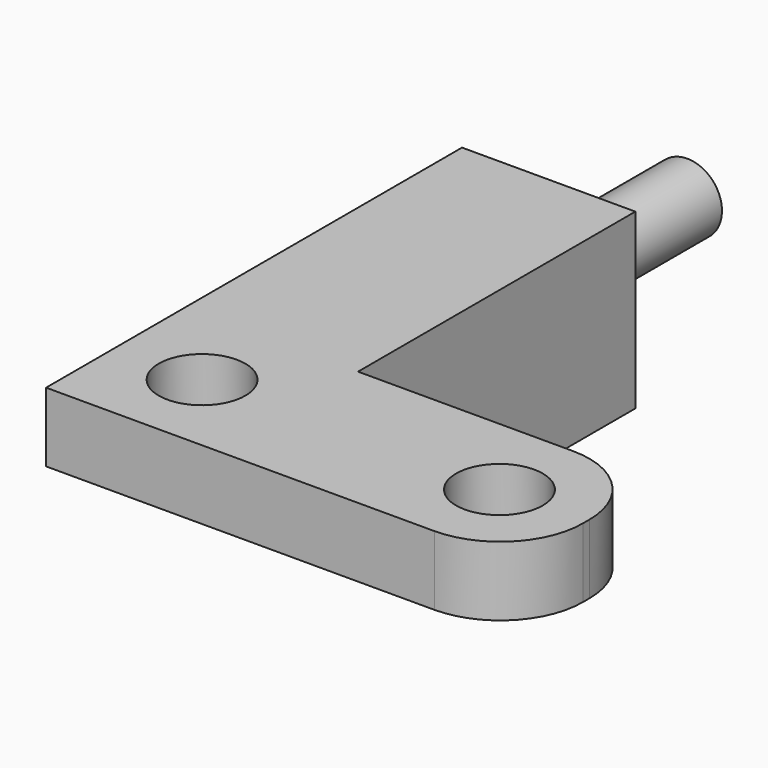
from build123d import *

# Parameters (mm, degrees)
PAD025_DEPTH    = 2
FILLET003_R     = 2.380952
SKETCH049_R     = 1.25
POCKET014_DEPTH = 2
SKETCH050_W     = 5
SKETCH050_H     = 10
PAD026_DEPTH    = 3
SKETCH051_R     = 1
PAD027_DEPTH    = 5


with BuildPart() as part:
    # Sketch048 → Pad025 (new body)
    with BuildSketch(Plane.XY):
        Polygon((-2.5, -2.5), (11.08, -2.5), (11.08, 2.5), (2.5, 2.5), (2.5, 12.5), (-2.5, 12.5), align=None)
    extrude(amount=PAD025_DEPTH)

    # Fillet003
    fillet003_edges = [part.edges().sort_by_distance(p)[0] for p in [
        (11.08, 2.5, 1),
        (11.08, -2.5, 1),
    ]]
    fillet(fillet003_edges, radius=FILLET003_R)

    # Sketch049 (on Face2 of Fillet003) → Pocket014 (cut)
    with BuildSketch(Plane(origin=(0, 0, 0), x_dir=(1, 0, 0), z_dir=(0, 0, -1))):
        Circle(SKETCH049_R)
        with Locations((8.58, 0)):
            Circle(SKETCH049_R)
    extrude(amount=-POCKET014_DEPTH, mode=Mode.SUBTRACT)

    # Sketch050 (on Face2 of Fillet003) → Pad026 (join)
    with BuildSketch(Plane(origin=(0, 0, 0), x_dir=(1, 0, 0), z_dir=(0, 0, -1))):
        with Locations((0, -7.5)):
            Rectangle(SKETCH050_W, SKETCH050_H)
    extrude(amount=PAD026_DEPTH)

    # Sketch051 (on Face12 of Pad026) → Pad027 (join)
    with BuildSketch(Plane(origin=(0, 12.5, 0), x_dir=(-1, 0, 0), z_dir=(0, 1, 0))):
        with Locations((0, -0.5)):
            Circle(SKETCH051_R)
    extrude(amount=PAD027_DEPTH)


with BuildPart() as part_1:
    # Body010 placement: moved
    add(part.part.moved(Location((119.92, 14.5, 6.25))))


solid = part_1.part
